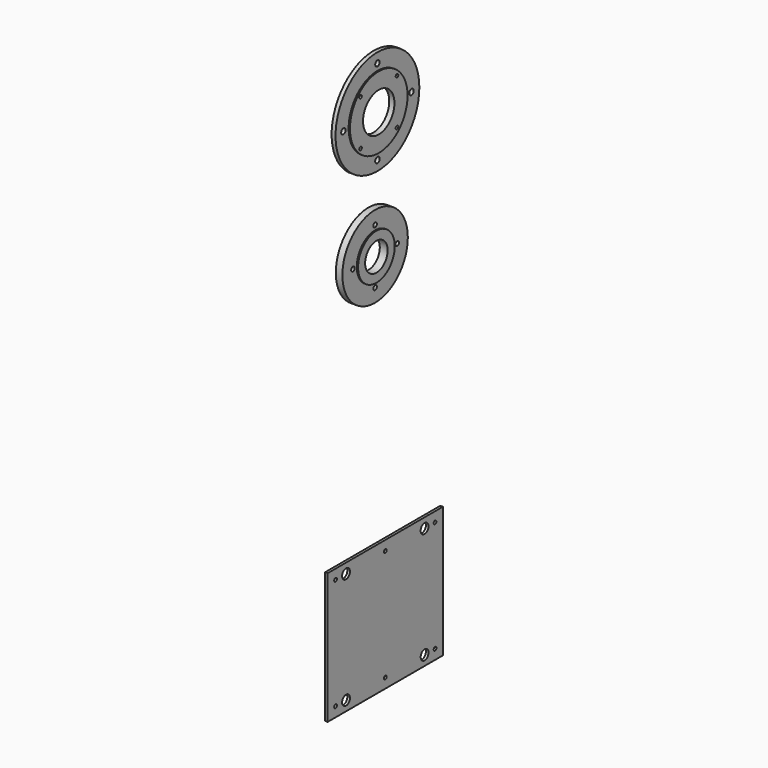
from build123d import *

# Parameters (mm, degrees)
F0_R     = 62.5
F0_R_2   = 3.4
F0_R_3   = 35
F1_DEPTH = 10
F0_R_4   = 21.5
F2_DEPTH = 12
F3_R     = 80
F3_R_2   = 4.25
F3_R_3   = 55
F4_DEPTH = 6
F3_R_4   = 2.5
F3_R_5   = 30
F5_DEPTH = 8
F6_W     = 220
F6_H     = 200
F6_R     = 2.6
F6_R_2   = 7.5
F7_DEPTH = 4


with BuildPart() as f1:
    # F0 (on Right) → F1 (new body)
    with BuildSketch(Plane.YZ):
        Circle(F0_R)
        with Locations((0, -42.3)):
            Circle(F0_R_2, mode=Mode.SUBTRACT)
        with Locations((-42.3, 0)):
            Circle(F0_R_2, mode=Mode.SUBTRACT)
        Circle(F0_R_3, mode=Mode.SUBTRACT)
        with Locations((42.3, 0)):
            Circle(F0_R_2, mode=Mode.SUBTRACT)
        with Locations((0, 42.3)):
            Circle(F0_R_2, mode=Mode.SUBTRACT)
    extrude(amount=F1_DEPTH)

    # F0 (on Right) → F2 (join)
    with BuildSketch(Plane.YZ):
        Circle(F0_R_3)
        Circle(F0_R_4, mode=Mode.SUBTRACT)
    extrude(amount=F2_DEPTH)


with BuildPart() as f4:
    # F3 (on Right) → F4 (new body)
    with BuildSketch(Plane.YZ):
        with Locations((9.49001, 189.358756)):
            Circle(F3_R)
        with Locations((9.49001, 124.358756)):
            Circle(F3_R_2, mode=Mode.SUBTRACT)
        with Locations((-55.50999, 189.358756)):
            Circle(F3_R_2, mode=Mode.SUBTRACT)
        with Locations((9.49001, 189.358756)):
            Circle(F3_R_3, mode=Mode.SUBTRACT)
        with Locations((74.49001, 189.358756)):
            Circle(F3_R_2, mode=Mode.SUBTRACT)
        with Locations((9.49001, 254.358756)):
            Circle(F3_R_2, mode=Mode.SUBTRACT)
    extrude(amount=F4_DEPTH)

    # F3 (on Right) → F5 (join)
    with BuildSketch(Plane.YZ):
        with Locations((9.49001, 189.358756)):
            Circle(F3_R_3)
        with Locations((-25.30999, 154.558756)):
            Circle(F3_R_4, mode=Mode.SUBTRACT)
        with Locations((44.29001, 154.558756)):
            Circle(F3_R_4, mode=Mode.SUBTRACT)
        with Locations((-25.30999, 224.158756)):
            Circle(F3_R_4, mode=Mode.SUBTRACT)
        with Locations((9.49001, 189.358756)):
            Circle(F3_R_5, mode=Mode.SUBTRACT)
        with Locations((44.29001, 224.158756)):
            Circle(F3_R_4, mode=Mode.SUBTRACT)
    extrude(amount=F5_DEPTH)


with BuildPart() as f7:
    # F6 (on Right) → F7 (new body)
    with BuildSketch(Plane.YZ):
        with Locations((27.019784, -494.349835)):
            Rectangle(F6_W, F6_H)
        with Locations((-67.980216, -579.349835)):
            Circle(F6_R, mode=Mode.SUBTRACT)
        with Locations((-47.980216, -579.349835)):
            Circle(F6_R_2, mode=Mode.SUBTRACT)
        with Locations((27.019784, -579.349835)):
            Circle(F6_R, mode=Mode.SUBTRACT)
        with Locations((102.019784, -579.349835)):
            Circle(F6_R_2, mode=Mode.SUBTRACT)
        with Locations((122.019784, -579.349835)):
            Circle(F6_R, mode=Mode.SUBTRACT)
        with Locations((-67.980216, -409.349835)):
            Circle(F6_R, mode=Mode.SUBTRACT)
        with Locations((-47.980216, -409.349835)):
            Circle(F6_R_2, mode=Mode.SUBTRACT)
        with Locations((27.019784, -409.349835)):
            Circle(F6_R, mode=Mode.SUBTRACT)
        with Locations((102.019784, -409.349835)):
            Circle(F6_R_2, mode=Mode.SUBTRACT)
        with Locations((122.019784, -409.349835)):
            Circle(F6_R, mode=Mode.SUBTRACT)
    extrude(amount=F7_DEPTH)


solid = Compound([f1.part, f4.part, f7.part])
